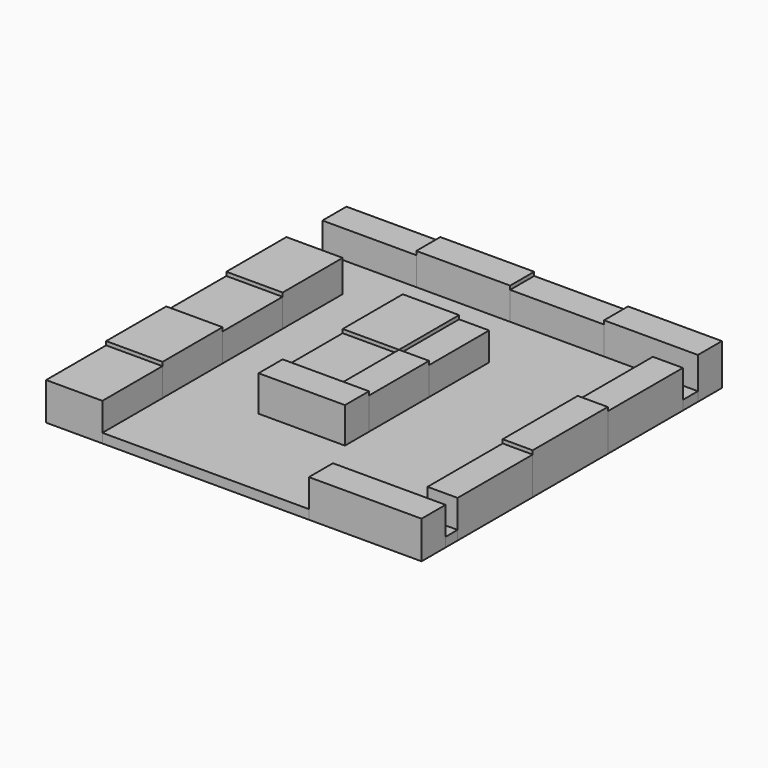
from build123d import *

# Parameters (mm, degrees)
F0_W     = 250
F0_H     = 80
F0_W_2   = 80
F0_H_2   = 250
F0_W_3   = 300
F0_W_4   = 150
F0_H_3   = 200
F1_DEPTH = 100
F2_DEPTH = 110
F3_DEPTH = 120
F4_DEPTH = 25


with BuildPart() as f1:
    # F0 (on Top) → F1 (new body)
    with BuildSketch(Plane.XY):
        with Locations((-375, 460)):
            Rectangle(F0_W, F0_H)
        with Locations((125, 460)):
            Rectangle(F0_W, F0_H)
        with Locations((460, 245)):
            Rectangle(F0_W_2, F0_H_2)
        with Locations((460, -255)):
            Rectangle(F0_W_2, F0_H_2)
        with Locations((350, -460)):
            Rectangle(F0_W_3, F0_H)
        with Locations((-425, -400)):
            Rectangle(F0_W_4, F0_H_3)
        with Locations((-425, 0)):
            Rectangle(F0_W_4, F0_H_3)
        with Locations((-75, -50)):
            Rectangle(F0_W_4, F0_H_3)
        with Locations((40, 150)):
            Rectangle(F0_W_2, F0_H_3)
    extrude(amount=F1_DEPTH)


with BuildPart() as f2:
    # F0 (on Top) → F2 (new body)
    with BuildSketch(Plane.XY):
        with Locations((-425, 200)):
            Rectangle(F0_W_4, F0_H_3)
        with Locations((-125, 460)):
            Rectangle(F0_W, F0_H)
        with Locations((375, 460)):
            Rectangle(F0_W, F0_H)
        with Locations((460, -5)):
            Rectangle(F0_W_2, F0_H_2)
        with Locations((-75, 150)):
            Rectangle(F0_W_4, F0_H_3)
        with Locations((40, -50)):
            Rectangle(F0_W_2, F0_H_3)
        with Locations((-425, -200)):
            Rectangle(F0_W_4, F0_H_3)
    extrude(amount=F2_DEPTH)


with BuildPart() as f3:
    # F0 (on Top) → F3 (new body)
    with BuildSketch(Plane.XY):
        Polygon((80, -150), (0, -150), (-150, -150), (-150, -230), (80, -230), align=None)
    extrude(amount=F3_DEPTH)


with BuildPart() as f4:
    # F0 (on Top) → F4 (new body)
    with BuildSketch(Plane.XY):
        Polygon((-250, 420), (-500, 420), (-500, 300), (-350, 300), (-350, 100), (-350, -100), (-350, -300), (-350, -500), (200, -500), (200, -420), (500, -420), (500, -380), (420, -380), (420, -130), (420, 120), (420, 370), (500, 370), (500, 420), (250, 420), (0, 420), align=None)
        Polygon((-150, 250), (0, 250), (80, 250), (80, 50), (80, -150), (80, -230), (-150, -230), (-150, -150), (-150, 50), align=None, mode=Mode.SUBTRACT)
    extrude(amount=F4_DEPTH)


solid = Compound([f1.part, f2.part, f3.part, f4.part])
